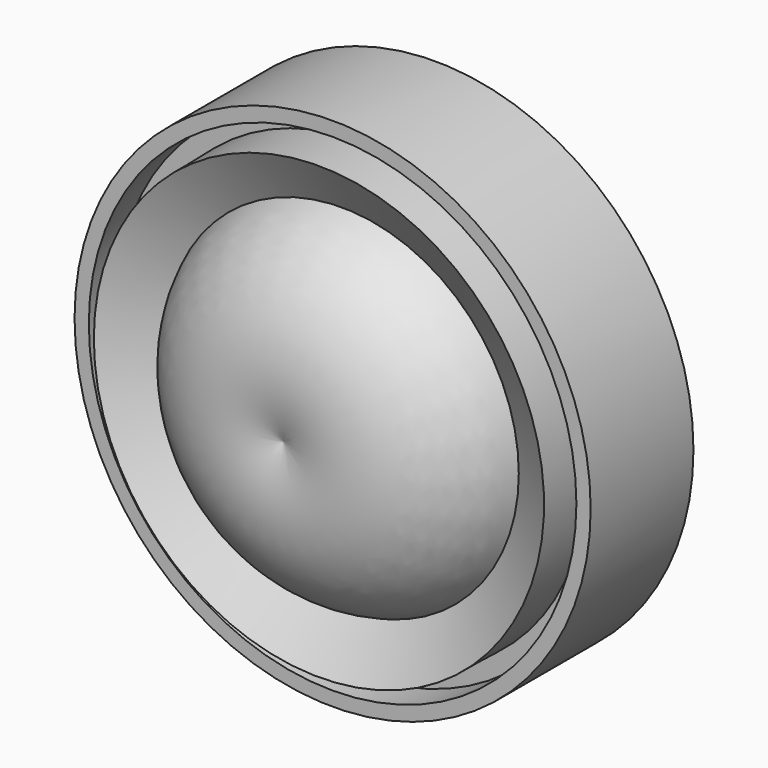
from build123d import *


with BuildPart() as f1:
    # F0 (on Top) → F1 (revolve)
    with BuildSketch(Plane.XY):
        with BuildLine():
            ThreePointArc((-28.781741, 17.214427), (-18.666347, 1.458812), (0, 0))
            Line((0, 0), (0, 39.037138))
            ThreePointArc((0, 39.037138), (-5.23889, 40.397598), (-10.651503, 40.376736))
            ThreePointArc((-10.651503, 40.376736), (-24.435511, 32.48928), (-28.781741, 17.214427))
        make_face()
        with BuildLine():
            Line((-47.072493, 6.328166), (-28.781741, 17.214427))
            ThreePointArc((-28.781741, 17.214427), (-24.435511, 32.48928), (-10.651503, 40.376736))
            Line((-10.651503, 40.376736), (-66.714064, 38.448682))
            Line((-66.714064, 38.448682), (-66.530811, 24.637766))
            Line((-66.530811, 24.637766), (-71.621858, 24.637766))
            Line((-71.621858, 24.637766), (-71.621858, 37.746653))
            Line((-71.621858, 37.746653), (-75.815931, 37.746653))
            Line((-75.815931, 37.746653), (-75.815931, 0))
            Line((-75.815931, 0), (-71.621858, 0))
            Line((-71.621858, 0), (-71.621858, 10.039238))
            Line((-71.621858, 10.039238), (-66.337107, 10.039238))
            Line((-66.337107, 10.039238), (-66.137306, -5.0188))
            Line((-66.137306, -5.0188), (-51.968862, 3.413952))
            ThreePointArc((-51.968862, 3.413952), (-30.566719, -18.412456), (0, -18.066773))
            Line((0, -18.066773), (0, -11.614354))
            ThreePointArc((0, -11.614354), (-27.613069, -13.338706), (-47.072493, 6.328166))
        make_face()
    revolve(axis=Axis((0, 19.518569, 0), (0, 1, 0)))


solid = f1.part
